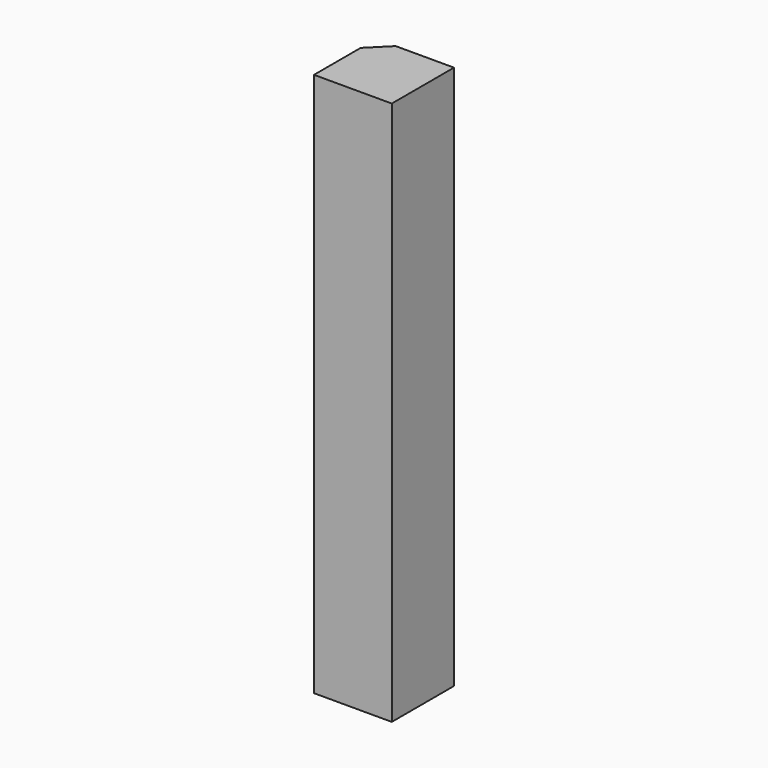
from build123d import *

# Parameters (mm, degrees)
F0_W     = 101.6
F0_H     = 711.2
F1_DEPTH = 101.6
F3_DEPTH = 88.9


with BuildPart() as f1:
    # F0 (on Right) → F1 (new body)
    with BuildSketch(Plane.YZ):
        with Locations((51.996593, 355.6)):
            Rectangle(F0_W, F0_H)
    extrude(amount=F1_DEPTH)

    # F2 (on face) → F3 (cut)
    with BuildSketch(Plane.XY.offset(711.2)):
        Polygon((25.4, 102.796593), (0, 102.796593), (0, 77.396593), align=None)
    extrude(amount=-F3_DEPTH, mode=Mode.SUBTRACT)


solid = f1.part
